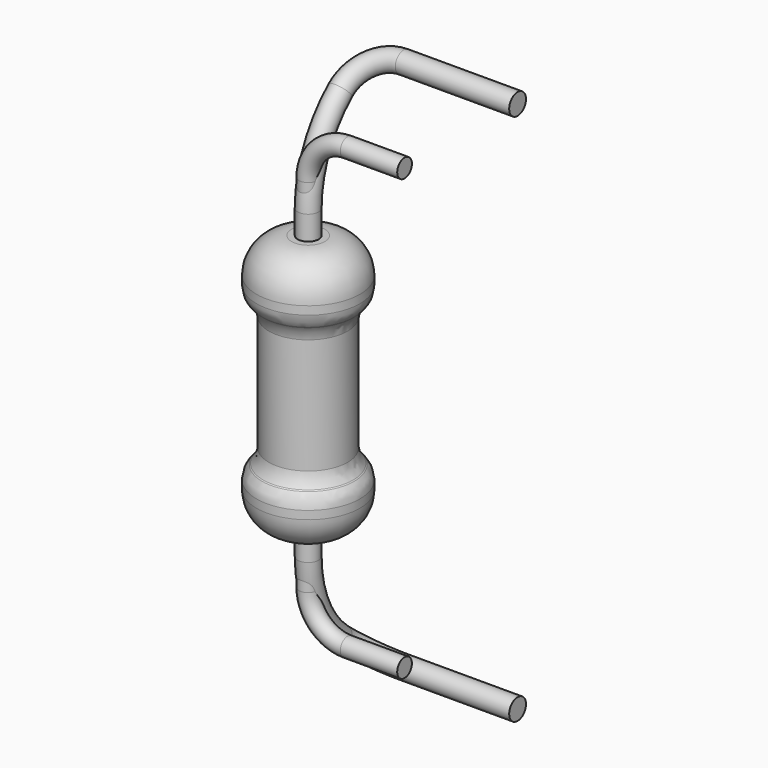
from build123d import *

# Parameters (mm, degrees)
F2_R  = 1.016
F3_R  = 0.5588
F7_R  = 0.3048
F16_R = 0.2667


with BuildPart() as f1:
    # F0 (on Front) → F1 (revolve)
    with BuildSketch(Plane.XZ):
        Polygon((1.4986, 3.7465), (0, 3.7465), (0, -3.7465), (1.4986, -3.7465), (1.4986, -2.2606), (1.143, -1.905), (1.143, 1.905), (1.4986, 2.2606), align=None)
    revolve(axis=Axis((0, 0, 0), (0, 0, 1)))

    # F2
    f2_edges = [f1.edges().sort_by_distance(p)[0] for p in [
        (-1.4986, 0, 3.7465),
        (-1.4986, 0, -3.7465),
    ]]
    fillet(f2_edges, radius=F2_R)

    # F3
    f3_edges = [f1.edges().sort_by_distance(p)[0] for p in [
        (-1.4986, 0, 2.2606),
        (-1.143, 0, 1.905),
        (-1.143, 0, -1.905),
        (-1.4986, 0, -2.2606),
    ]]
    fillet(f3_edges, radius=F3_R)


with BuildPart() as f13:
    # F13: sweep along a path in F5, F12, F8, F10, F5
    with BuildLine(Plane.XZ.offset(-2.032)) as f13_path:
        Line((4.445, -7.7216), (1.143, -7.7216))
    with BuildLine(Plane(origin=(0, -2.9545414218, -3.4450675651), x_dir=(1, 0, 0), z_dir=(0, -0.6509979278, -0.759079507))) as f13_path_2:
        ThreePointArc((0, -5.4261951576), (0.3347769491, -6.2344182085), (1.143, -6.5691951576))
    with BuildLine(Plane.YZ) as f13_path_3:
        ThreePointArc((1.1643721235, -6.9775093685), (0.3050378778, -5.8386791366), (0, -4.445))
        Line((0, -4.445), (0, 0))
        Line((0, 0), (0, 4.445))
        ThreePointArc((0, 4.445), (0.3050378778, 5.8386791366), (1.1643721235, 6.9775093685))
    with BuildLine(Plane(origin=(0, -2.9545414218, 3.4450675651), x_dir=(1, 0, 0), z_dir=(0, -0.6509979278, 0.759079507))) as f13_path_4:
        ThreePointArc((1.143, 6.5691951576), (0.3347769491, 6.2344182085), (0, 5.4261951576))
    with BuildLine(Plane.XZ.offset(-2.032)) as f13_path_5:
        Line((4.445, 7.7216), (1.143, 7.7216))
    # F7 (on plane+point) → F13 (sweep)
    with BuildSketch(Plane.YZ.offset(4.445)):
        with Locations((2.032, -7.7216)):
            Circle(F7_R)
    sweep(path=f13_path.line + f13_path_2.line + f13_path_3.line + f13_path_4.line + f13_path_5.line)


with BuildPart() as f17:
    # F17: sweep along a path in F14
    with BuildLine(Plane.XZ) as f17_path:
        Line((2.794, -6.3754), (1.143, -6.3754))
        ThreePointArc((1.143, -6.3754), (0.3347769491, -6.0406230509), (0, -5.2324))
        Line((0, -5.2324), (0, 0))
        Line((0, 0), (0, 5.2324))
        ThreePointArc((0, 5.2324), (0.3347769491, 6.0406230509), (1.143, 6.3754))
        Line((1.143, 6.3754), (2.794, 6.3754))
    # F16 (on plane+point) → F17 (sweep)
    with BuildSketch(Plane.YZ.offset(2.794)):
        with Locations((0, -6.3754)):
            Circle(F16_R)
    sweep(path=f17_path.line)


solid = Compound([f1.part, f13.part, f17.part])
